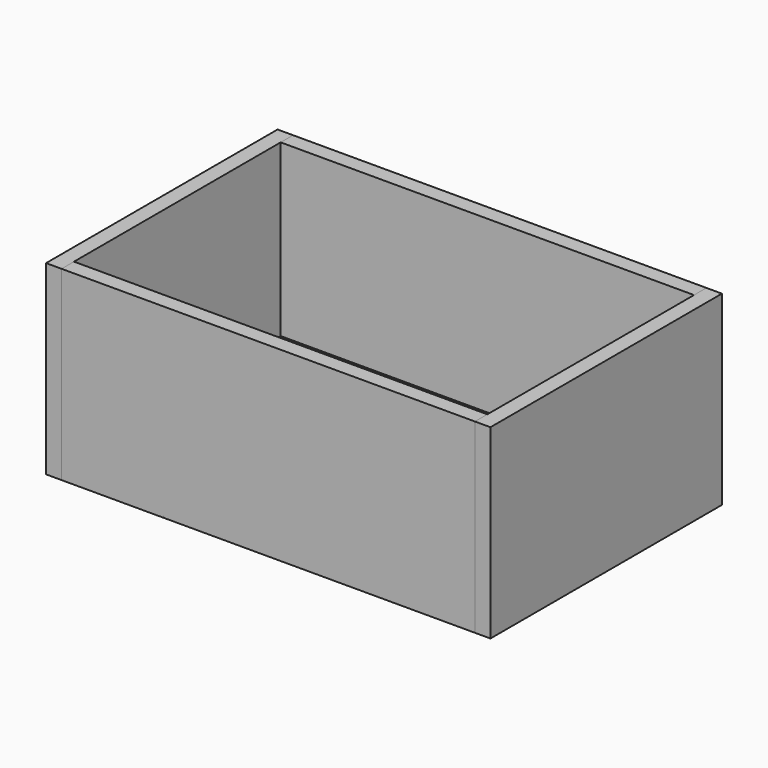
from build123d import *

# Parameters (mm, degrees)
F0_W     = 218.44
F0_H     = 142.24
F1_DEPTH = 7.62
F4_DEPTH = 7.62
F8_DEPTH = 7.62


with BuildPart() as f1:
    # F0 (on Top) → F1 (new body)
    with BuildSketch(Plane.XY):
        Rectangle(F0_W, F0_H)
    extrude(amount=F1_DEPTH)


with BuildPart() as f4:
    # F3 (on offset) → F4 (new body)
    with BuildSketch(Plane.XZ.offset(71.12)):
        Polygon((-109.22, 0), (0, 0), (109.22, 0), (109.22, 91.44), (-109.22, 91.44), align=None)
    extrude(amount=-F4_DEPTH)


with BuildPart() as f5_1:
    # F5: instance of F4
    add(f4.part.mirror(Plane.XZ))


with BuildPart() as f8:
    # F7 (on offset) → F8 (new body)
    with BuildSketch(Plane.YZ.offset(109.22)):
        Polygon((-71.12, 0), (0, 0), (71.12, 0), (71.12, 91.44), (-71.12, 91.44), align=None)
    extrude(amount=-F8_DEPTH)


with BuildPart() as f9_1:
    # F9: instance of F8
    add(f8.part.mirror(Plane.YZ))


solid = Compound([f1.part, f4.part, f5_1.part, f8.part, f9_1.part])
